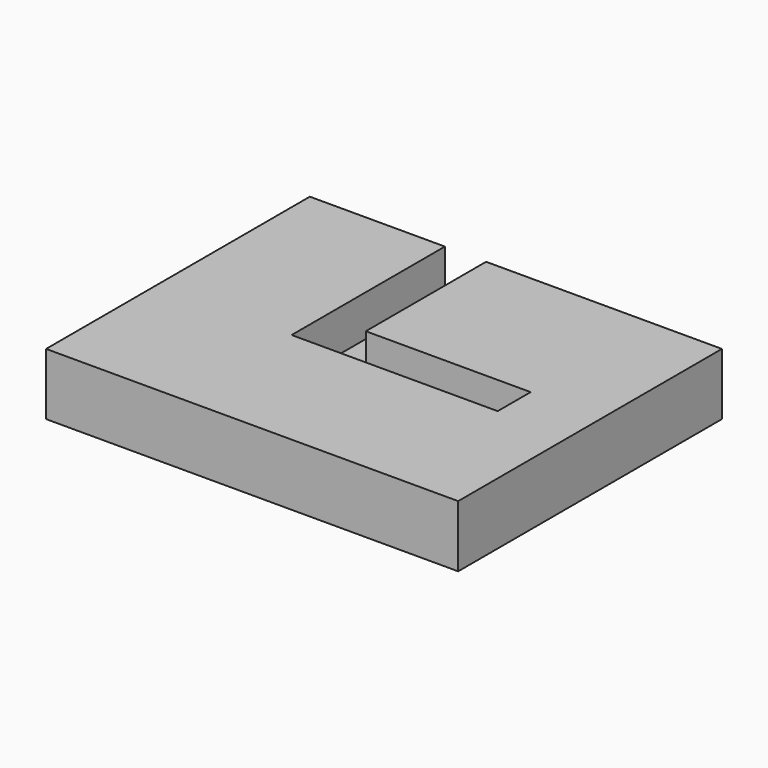
from build123d import *

# Parameters (mm, degrees)
SKETCH_W     = 40
SKETCH_H     = 32
PAD_DEPTH    = 6
POCKET_DEPTH = 4


with BuildPart() as part:
    # Sketch → Pad (new body)
    with BuildSketch(Plane.XY):
        with Locations((0.861926, -0.003967)):
            Rectangle(SKETCH_W, SKETCH_H)
    extrude(amount=PAD_DEPTH)

    # Sketch001 → Pocket (cut)
    with BuildSketch(Plane.XY.offset(6)):
        Polygon((-6.02844, 15.996033), (-6.02844, -2.599419), (13.97156, -2.599419), (13.97156, 1.400581), (-2.02844, 1.400581), (-2.02844, 15.996033), align=None)
    extrude(amount=-POCKET_DEPTH, mode=Mode.SUBTRACT)


solid = part.part
